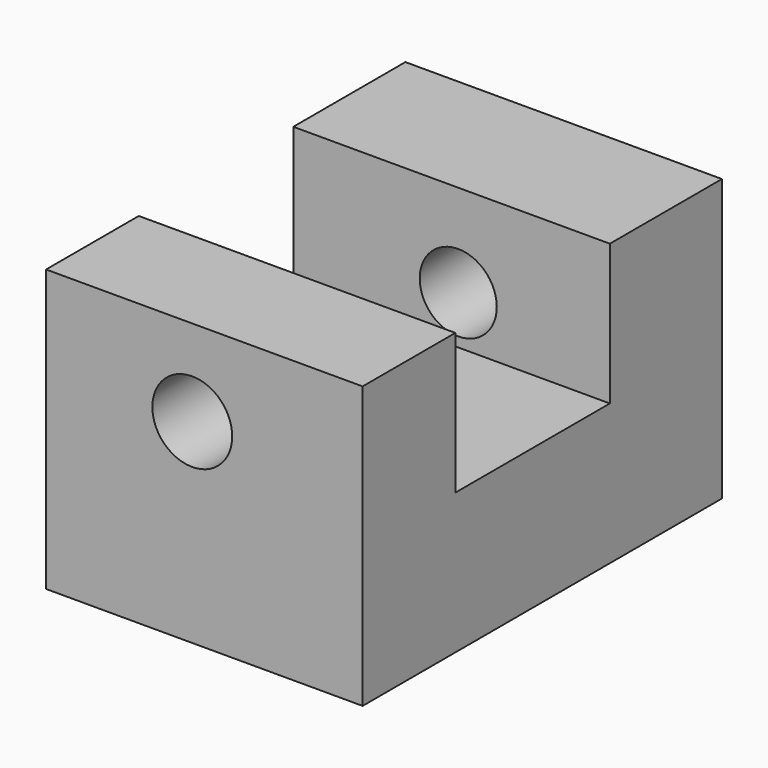
from build123d import *

# Parameters (mm, degrees)
F1_DEPTH = 88.9
F2_R     = 11.212602
F3_DEPTH = 76.2
F4_R     = 10.819094
F5_DEPTH = 76.2


with BuildPart() as f1:
    # F0 (on Right) → F1 (new body)
    with BuildSketch(Plane.YZ):
        Polygon((63.066408, -39.499849), (63.066408, 39.499849), (23.723558, 39.499849), (23.723558, 0), (-30.519336, 0), (-30.519336, 39.499849), (-63.066408, 39.499849), (-63.066408, -39.499849), align=None)
    extrude(amount=F1_DEPTH)

    # F2 (on Front) → F3 (cut)
    with BuildSketch(Plane.XZ):
        with Locations((41.055754, 15.218571)):
            Circle(F2_R)
    extrude(amount=F3_DEPTH, mode=Mode.SUBTRACT)

    # F4 (on Front) → F5 (cut)
    with BuildSketch(Plane.XZ):
        with Locations((46.320774, 13.538517)):
            Circle(F4_R)
    extrude(amount=-F5_DEPTH, mode=Mode.SUBTRACT)


solid = f1.part
